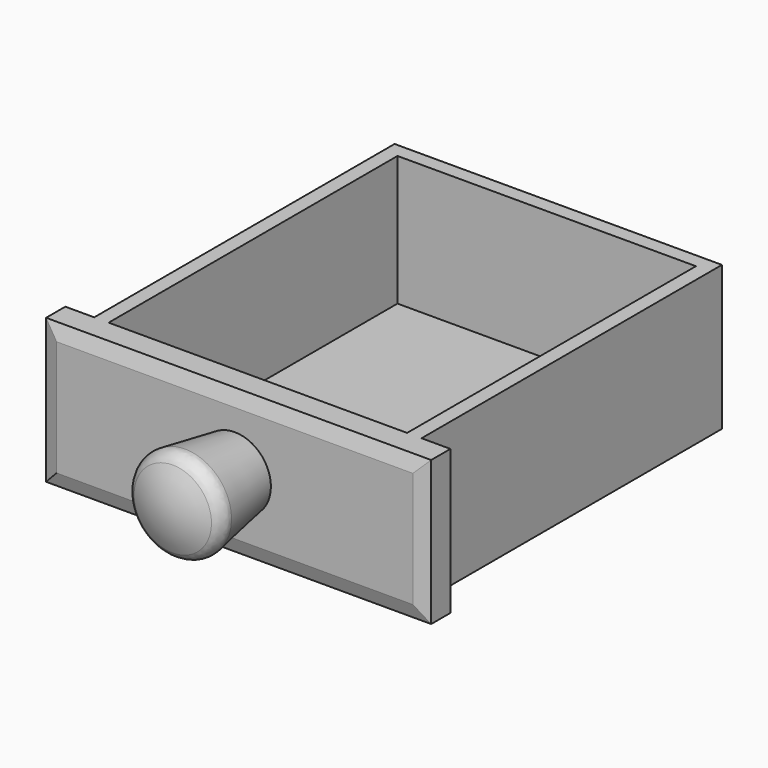
from build123d import *

# Parameters (mm, degrees)
F0_W     = 68
F0_H     = 78
F1_DEPTH = 30
F2_T     = -3
F3_W     = 80
F3_H     = 30
F4_DEPTH = 6
F5_SIZE2 = 1
F5_SIZE  = 3
F8_R     = 3


with BuildPart() as f1:
    # F0 (on Top) → F1 (new body)
    with BuildSketch(Plane.XY):
        with Locations((0, 39)):
            Rectangle(F0_W, F0_H)
    extrude(amount=F1_DEPTH)

    # F2
    f2_openings = [f1.faces().sort_by_distance(p)[0] for p in [
        (0, 39, 30),
        (0, 0, 15),
    ]]
    offset(amount=F2_T, openings=f2_openings)

    # F3 (on Front) → F4 (join)
    with BuildSketch(Plane.XZ):
        with Locations((0, 15)):
            Rectangle(F3_W, F3_H)
    extrude(amount=F4_DEPTH)

    # F5
    f5_edges = [f1.edges().sort_by_distance(p)[0] for p in [
        (0, -6, 30),
        (-40, -6, 15),
        (0, -6, 0),
        (40, -6, 15),
    ]]
    f5_side = f1.faces().sort_by_distance((0, -6, 15))[0]
    chamfer(f5_edges, length=F5_SIZE, length2=F5_SIZE2, reference=f5_side)

    # F6 (on Right) → F7 (revolve)
    with BuildSketch(Plane.YZ):
        with BuildLine():
            ThreePointArc((-20.9666295471, 25), (-23.2249721603, 20.2249721603), (-24, 15))
            Line((-24, 15), (-6, 15))
            Line((-6, 15), (-6, 22.5))
            Line((-6, 22.5), (-20.9666295471, 25))
        make_face()
    revolve(axis=Axis((0, -21.969004482, 15), (0, -1, 0)))

    # F8
    f8_edges = [f1.edges().sort_by_distance(p)[0] for p in [
        (0, -20.96663, 5),
    ]]
    fillet(f8_edges, radius=F8_R)


solid = f1.part
